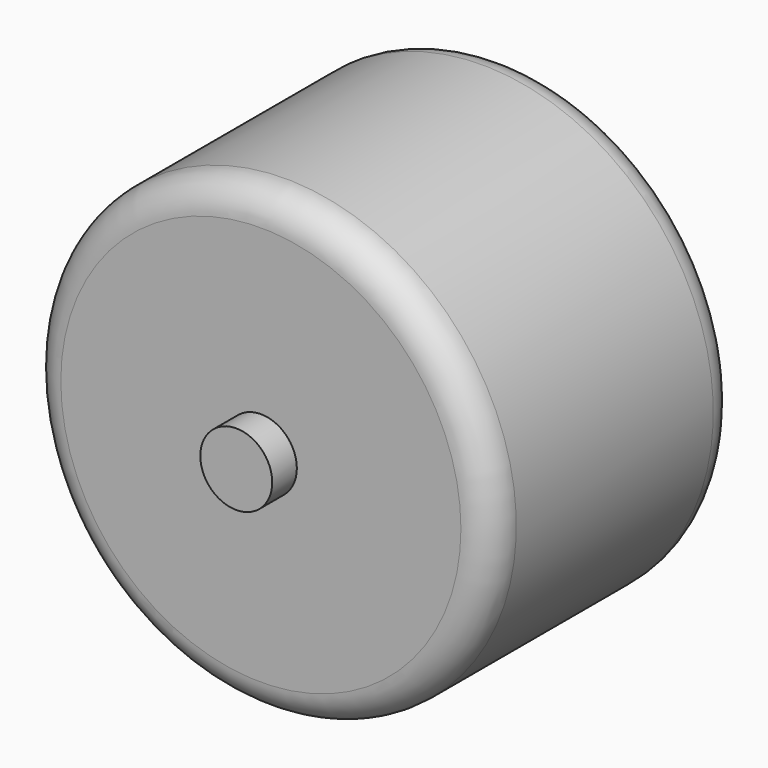
from build123d import *

# Parameters (mm, degrees)
F0_R     = 5.935781
F1_DEPTH = 5.08
F2_R     = 38.1
F3_DEPTH = 50.8
F4_R     = 5.08


with BuildPart() as f1:
    # F0 (on Front) → F1 (new body)
    with BuildSketch(Plane.XZ):
        Circle(F0_R)
    extrude(amount=F1_DEPTH)

    # F2 (on face) → F3 (join)
    with BuildSketch(Plane(origin=(0, 0, 0), x_dir=(-1, 0, 0), z_dir=(0, 1, 0))):
        Circle(F2_R)
    extrude(amount=F3_DEPTH)

    # F4
    f4_edges = [f1.edges().sort_by_distance(p)[0] for p in [
        (38.1, 0, 0),
        (38.1, 50.8, 0),
    ]]
    fillet(f4_edges, radius=F4_R)


solid = f1.part
